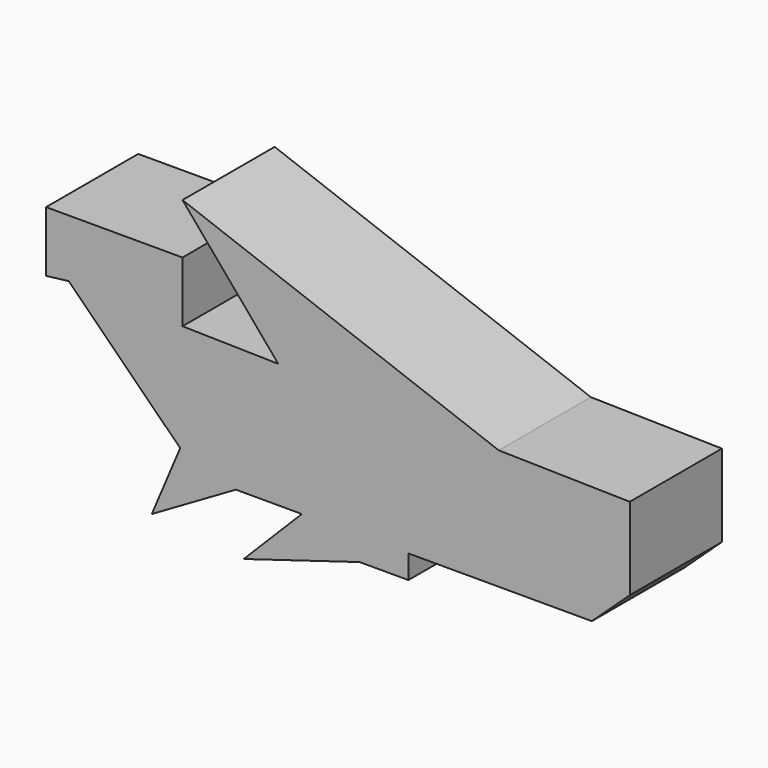
from build123d import *

# Parameters (mm, degrees)
F1_DEPTH = 25.4


with BuildPart() as f1:
    # F0 (on Front) → F1 (new body)
    with BuildSketch(Plane.XZ):
        Polygon((-60.480785, 8.170386), (-55.498842, 8.76822), (-30.904669, -15.655161), (-26.802853, -19.728493), (-18.632466, -19.728493), (-4.085192, -19.728493), (19.429578, -19.728493), (59.88295, -19.728493), (68.252616, -11.956663), (68.252616, 6.177609), (39.349016, 6.76152), (-9.28308, 7.743987), (-30.389851, 8.170386), (-30.389851, 21.521993), (-60.480785, 21.521993), align=None)
        Polygon((-30.389851, 32.681543), (-9.28308, 7.743987), (39.349016, 6.76152), align=None)
        Polygon((19.429578, -19.728493), (-4.085192, -19.728493), (-16.893318, -32.626187), (8.668581, -24.909712), (19.429578, -24.909712), align=None)
        Polygon((-26.802853, -19.728493), (-30.904669, -15.655161), (-37.165292, -30.489489), (-18.632466, -19.728493), align=None)
    extrude(amount=F1_DEPTH)


solid = f1.part
